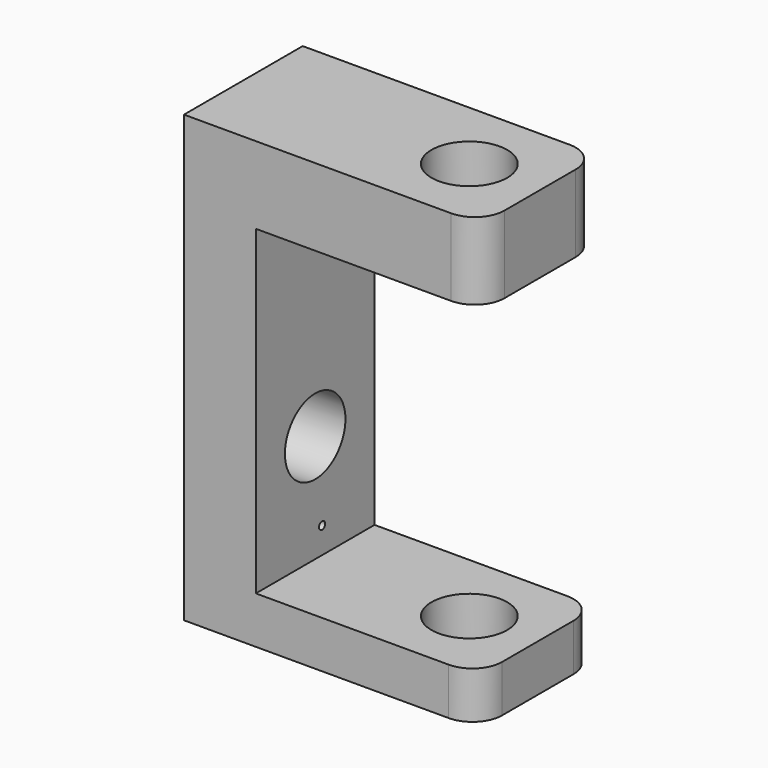
from build123d import *

# Parameters (mm, degrees)
F0_W      = 50.8
F0_H      = 25.4
F1_DEPTH  = 76.2
F2_W      = 38.502306
F2_H      = 62.993251
F3_DEPTH  = 50.8
F5_R      = 6.477
F6_DEPTH  = 25.4
F7_W      = 25.4
F7_H      = 8.050508
F8_DEPTH  = 38.1
F4_R      = 6.477
F9_DEPTH  = 101.6
F10_R     = 5.08
F11_R     = 0.652616
F12_DEPTH = 25.4


with BuildPart() as f1:
    # F0 (on Top) → F1 (new body)
    with BuildSketch(Plane.XY):
        with Locations((-25.4, 12.7)):
            Rectangle(F0_W, F0_H)
    extrude(amount=F1_DEPTH)

    # F2 (on face) → F3 (cut)
    with BuildSketch(Plane.XZ):
        with Locations((-19.251153, 31.496625)):
            Rectangle(F2_W, F2_H)
    extrude(amount=-F3_DEPTH, mode=Mode.SUBTRACT)

    # F5 (on face) → F6 (cut)
    with BuildSketch(Plane(origin=(-50.8, 0, 0), x_dir=(0, -1, 0), z_dir=(-1, 0, 0))):
        with Locations((-12.7, 26.55393)):
            Circle(F5_R)
    extrude(amount=-F6_DEPTH, mode=Mode.SUBTRACT)

    # F7 (on face) → F8 (join)
    with BuildSketch(Plane.YZ.offset(-38.502306)):
        with Locations((12.7, 4.025254)):
            Rectangle(F7_W, F7_H)
    extrude(amount=F8_DEPTH)

    # F4 (on face) → F9 (cut)
    with BuildSketch(Plane.XY.offset(76.2)):
        with Locations((-12.11443, 12.7)):
            Circle(F4_R)
    extrude(amount=-F9_DEPTH, mode=Mode.SUBTRACT)

    # F10
    f10_edges = [f1.edges().sort_by_distance(p)[0] for p in [
        (0, 0, 69.596625),
        (-0.402306, 0, 4.025254),
        (-0.402306, 25.4, 4.025254),
        (0, 25.4, 69.596625),
    ]]
    fillet(f10_edges, radius=F10_R)

    # F11 (on face) → F12 (cut)
    with BuildSketch(Plane(origin=(-50.8, 0, 0), x_dir=(0, -1, 0), z_dir=(-1, 0, 0))):
        with Locations((-12.464834, 61.265279)):
            Circle(F11_R)
        with Locations((-14.175368, 12.515864)):
            Circle(F11_R)
    extrude(amount=-F12_DEPTH, mode=Mode.SUBTRACT)


solid = f1.part
